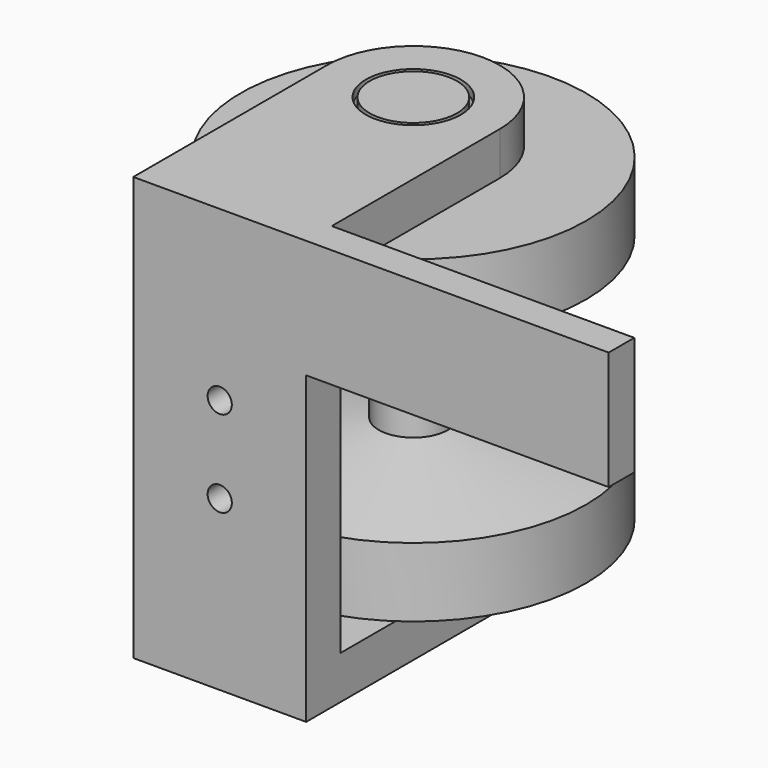
from build123d import *

# Parameters (mm, degrees)
SKETCH_R                = 4
PAD_DEPTH               = 26
SKETCH002_R             = 20
PAD002_DEPTH            = 8
PAD003_DEPTH            = 32
POCKET_DEPTH            = 5
SKETCH006_R             = 20
PAD004_DEPTH            = 8
POCKET001_DEPTH         = 6
POCKET002_DEPTH         = 5
BODY001_PLACEMENT_ANGLE = 180
PAD005_DEPTH            = 49
SKETCH011_W             = 20
SKETCH011_H             = 39
POCKET003_DEPTH         = 33.001
SKETCH012_R             = 1.4
POCKET004_DEPTH         = 38.001
SKETCH013_R             = 7.501
POCKET005_DEPTH         = 4
POCKET006_DEPTH         = 43
SKETCH014_R             = 5.501
POCKET007_DEPTH         = 5.001
POCKET007_DEPTH_BACK    = 44.001
SKETCH017_W             = 35
SKETCH017_H             = 13.7
PAD007_DEPTH            = 3.7
SKETCH015_R             = 5.05
PAD006_DEPTH            = 11
SKETCH016_R             = 11.305502
POCKET008_DEPTH         = 5


with BuildPart() as obj1:
    # Sketch → Pad (new body)
    with BuildSketch(Plane.XY):
        Circle(SKETCH_R)
    extrude(amount=PAD_DEPTH)

    # Sketch002 → Pad002 (join)
    with BuildSketch(Plane.XY):
        Circle(SKETCH002_R)
    extrude(amount=PAD002_DEPTH)

    # Sketch003 → Revolution (revolve)
    with BuildSketch(Plane.XZ):
        Polygon((0, 8), (20, 8), (0, 11), align=None)
    revolve(axis=Axis((0, 0, 0), (0, 0, 1)))

    # Sketch005 → Pad003 (join)
    with BuildSketch(Plane.XY):
        Polygon((2, -3.4641016151), (4, 0), (2.0000000001, 3.4641016151), (-1.9999999999, 3.4641016152), (-4, 1e-10), (-2, -3.4641016151), align=None)
    extrude(amount=PAD003_DEPTH)

    # Sketch004 → Pocket (cut)
    with BuildSketch(Plane.XY):
        Polygon((4.965, 0), (2.4825, 4.2998161298), (-2.4825, 4.2998161298), (-4.965, 0), (-2.4825, -4.2998161298), (2.4825, -4.2998161298), align=None)
    extrude(amount=POCKET_DEPTH, mode=Mode.SUBTRACT)


with BuildPart() as obj2:
    # Sketch006 → Pad004 (new body)
    with BuildSketch(Plane.XY):
        Circle(SKETCH006_R)
    extrude(amount=PAD004_DEPTH)

    # Sketch007 → Revolution001 (revolve)
    with BuildSketch(Plane.XZ):
        Polygon((0, 8), (20, 8), (0, 11), align=None)
    revolve(axis=Axis((0, 0, 0), (0, 0, 1)))

    # Sketch008 → Pocket001 (cut)
    with BuildSketch(Plane.XY.offset(11)):
        Polygon((4.02, 0), (2.01, 3.4814221232), (-2.01, 3.4814221232), (-4.02, -1e-10), (-2.0099999999, -3.4814221232), (2.0100000001, -3.4814221232), align=None)
    extrude(amount=-POCKET001_DEPTH, mode=Mode.SUBTRACT)

    # Sketch009 → Pocket002 (cut)
    with BuildSketch(Plane.XY):
        Polygon((4.965, 0), (2.4825, 4.2998161298), (-2.4825, 4.2998161298), (-4.965, 0), (-2.4825, -4.2998161298), (2.4825, -4.2998161298), align=None)
    extrude(amount=POCKET002_DEPTH, mode=Mode.SUBTRACT)


with BuildPart() as obj2_1:
    # Body001 placement: moved
    add(obj2.part.moved(Location((0, 0, 36.9))).rotate(Axis((0, 0, 36.9), (1, 0, 0)), BODY001_PLACEMENT_ANGLE))


with BuildPart() as obj3:
    # Sketch010 → Pad005 (new body)
    with BuildSketch(Plane.XY.offset(-5)):
        with BuildLine():
            Line((-10, 0), (10, 0))
            Line((10, 0), (10, 28))
            ThreePointArc((10, 28), (0, 38), (-10, 28))
            Line((-10, 0), (-10, 28))
        make_face()
    extrude(amount=PAD005_DEPTH)

    # Sketch011 → Pocket003 (cut, through all)
    with BuildSketch(Plane.XZ.offset(-5)):
        with Locations((0, 19.5)):
            Rectangle(SKETCH011_W, SKETCH011_H)
    extrude(amount=-POCKET003_DEPTH, mode=Mode.SUBTRACT)

    # Sketch012 → Pocket004 (cut, through all)
    with BuildSketch(Plane.XZ):
        with Locations((0, 24.5)):
            Circle(SKETCH012_R)
        with Locations((0, 14.5)):
            Circle(SKETCH012_R)
    extrude(amount=-POCKET004_DEPTH, mode=Mode.SUBTRACT)

    # Sketch013 → Pocket005 (cut)
    with BuildSketch(Plane.XY):
        with Locations((0, 28)):
            Circle(SKETCH013_R)
    extrude(amount=-POCKET005_DEPTH, mode=Mode.SUBTRACT)

    # Sketch013 → Pocket006 (cut)
    with BuildSketch(Plane.XY):
        with Locations((0, 28)):
            Circle(SKETCH013_R)
    extrude(amount=POCKET006_DEPTH, mode=Mode.SUBTRACT)

    # Sketch014 → Pocket007 (cut, two sides)
    with BuildSketch(Plane.XY) as pocket007_sk:
        with Locations((0, 28)):
            Circle(SKETCH014_R)
    extrude(amount=-POCKET007_DEPTH, mode=Mode.SUBTRACT)
    extrude(pocket007_sk.sketch, amount=POCKET007_DEPTH_BACK, mode=Mode.SUBTRACT)

    # Sketch017 → Pad007 (join)
    with BuildSketch(Plane.XZ):
        with Locations((27.5, 37.15)):
            Rectangle(SKETCH017_W, SKETCH017_H)
    extrude(amount=-PAD007_DEPTH)


with BuildPart() as obj3_1:
    # Body002 placement: moved
    add(obj3.part.moved(Location((0, -28, -1))))


with BuildPart() as connector:
    # Sketch015 → Pad006 (new body)
    with BuildSketch(Plane.XY):
        Circle(SKETCH015_R)
    extrude(amount=PAD006_DEPTH)

    # Sketch016 → Pocket008 (cut)
    with BuildSketch(Plane.XY):
        Circle(SKETCH016_R)
        Polygon((4.84, 0), (2.42, 4.1915629543), (-2.42, 4.1915629543), (-4.84, 0), (-2.42, -4.1915629543), (2.42, -4.1915629543), align=None, mode=Mode.SUBTRACT)
    extrude(amount=POCKET008_DEPTH, mode=Mode.SUBTRACT)


with BuildPart() as connector_1:
    # Body003 placement: moved
    add(connector.part.moved(Location((0, 0, 32))))


solid = Compound([obj1.part, obj2_1.part, obj3_1.part, connector_1.part])
